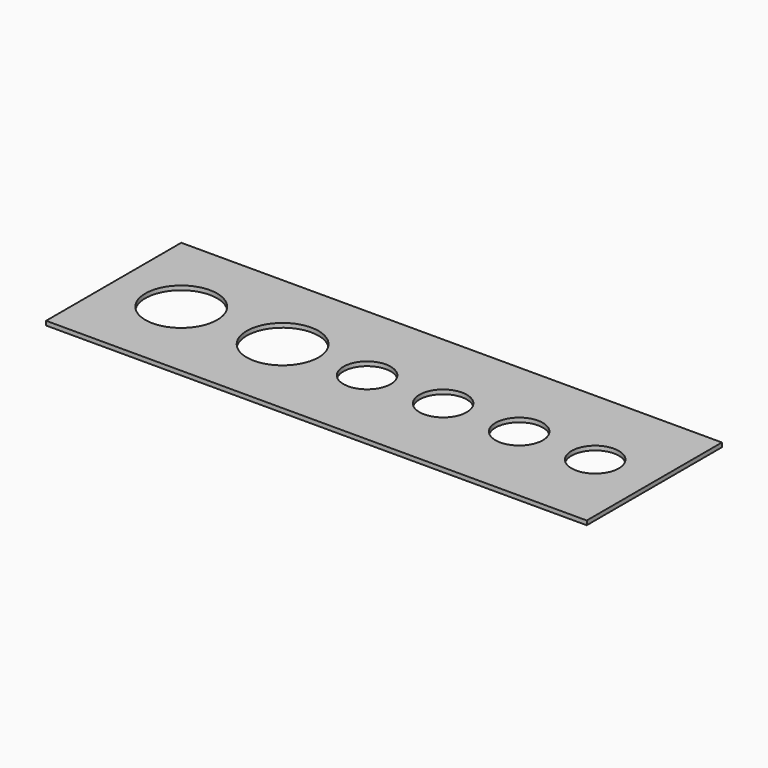
from build123d import *

# Parameters (mm, degrees)
F0_W     = 203.2
F0_H     = 63.5
F1_DEPTH = 1.5875
F2_R     = 13.49375
F2_R_2   = 8.89
F3_DEPTH = 25.4


with BuildPart() as f1:
    # F0 (on Top) → F1 (new body)
    with BuildSketch(Plane.XY):
        Rectangle(F0_W, F0_H)
    extrude(amount=F1_DEPTH)

    # F2 (on face) → F3 (cut)
    with BuildSketch(Plane.XY.offset(1.5875)):
        with Locations((-76.2, 0)):
            Circle(F2_R)
        with Locations((-38.1, 0)):
            Circle(F2_R)
        with Locations((-6.35, 0)):
            Circle(F2_R_2)
        with Locations((22.225, 0)):
            Circle(F2_R_2)
        with Locations((50.8, 0)):
            Circle(F2_R_2)
        with Locations((79.375, 0)):
            Circle(F2_R_2)
    extrude(amount=-F3_DEPTH, mode=Mode.SUBTRACT)


solid = f1.part
